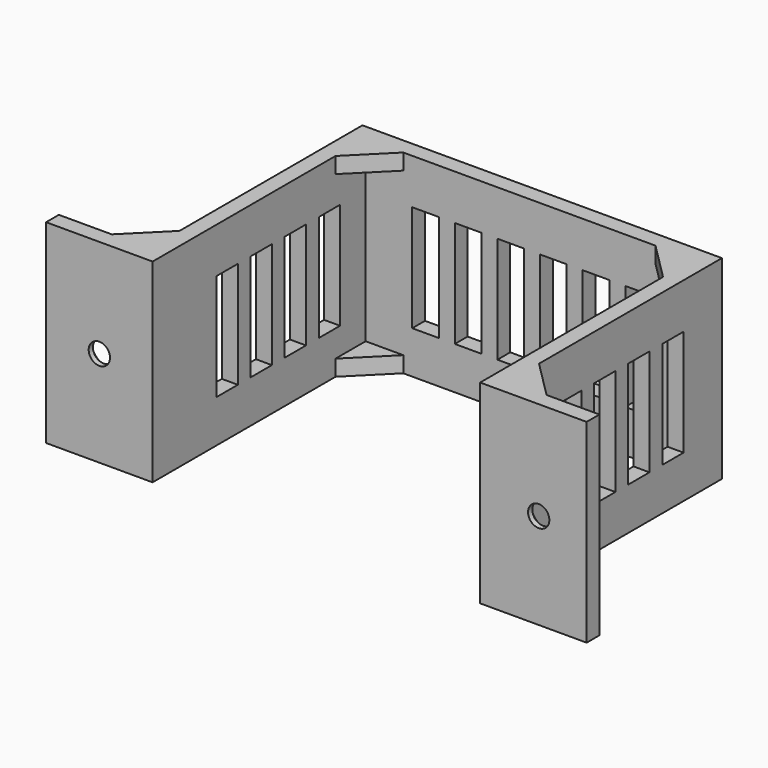
from build123d import *

# Parameters (mm, degrees)
PAD_DEPTH       = 30.5
SKETCH001_R     = 2
SKETCH001_W     = 5
SKETCH001_H     = 20
POCKET_DEPTH    = 53.001
CHAMFER_SIZE    = 2
PAD001_DEPTH    = 3
PAD002_DEPTH    = 3
SKETCH004_W     = 5
SKETCH004_H     = 20
POCKET001_DEPTH = 84.501


with BuildPart() as part:
    # Sketch → Pad (new body)
    with BuildSketch(Plane.XY):
        Polygon((0, 0), (20, 0), (20, 50), (81.5, 50), (81.5, 0), (101.5, 0), (101.5, 3), (84.5, 3), (84.5, 53), (17, 53), (17, 3), (0, 3), align=None)
    extrude(amount=PAD_DEPTH)

    # Sketch001 (on Face1 of Pad) → Pocket (cut, through all)
    with BuildSketch(Plane.XZ):
        with Locations((10, 15)):
            Circle(SKETCH001_R)
        with Locations((92.5, 15)):
            Circle(SKETCH001_R)
        with Locations((31.25, 15)):
            Rectangle(SKETCH001_W, SKETCH001_H)
        with Locations((71.25, 15)):
            Rectangle(SKETCH001_W, SKETCH001_H)
        with Locations((63.25, 15)):
            Rectangle(SKETCH001_W, SKETCH001_H)
        with Locations((39.25, 15)):
            Rectangle(SKETCH001_W, SKETCH001_H)
        with Locations((47.25, 15)):
            Rectangle(SKETCH001_W, SKETCH001_H)
        with Locations((55.25, 15)):
            Rectangle(SKETCH001_W, SKETCH001_H)
    extrude(amount=-POCKET_DEPTH, mode=Mode.SUBTRACT)

    # Chamfer
    chamfer_edges = [part.edges().sort_by_distance(p)[0] for p in [
        (90.5, 3, 15),
        (8, 3, 15),
    ]]
    chamfer(chamfer_edges, length=CHAMFER_SIZE)

    # Sketch003 (on Face6 of Chamfer) → Pad001 (join)
    with BuildSketch(Plane.XY):
        Polygon((0, 0), (20, 0), (20, 42.928932), (27.071068, 50), (74.428932, 50), (81.5, 42.928932), (81.5, 0), (101.5, 0), (101.5, 3), (91.571068, 3), (84.5, 10.071068), (84.5, 53), (17, 53), (17, 10.071068), (9.928932, 3), (0, 3), align=None)
    extrude(amount=-PAD001_DEPTH)

    # Sketch002 (on Face7 of Pad001) → Pad002 (join)
    with BuildSketch(Plane.XY.offset(30.5)):
        Polygon((0, 0), (20, 0), (20, 42.928932), (27.071068, 50), (74.428932, 50), (81.5, 42.928932), (81.5, 0), (101.5, 0), (101.5, 3), (91.571068, 3), (84.5, 10.071068), (84.5, 53), (17, 53), (17, 10.071068), (9.928932, 3), (0, 3), align=None)
    extrude(amount=PAD002_DEPTH)

    # Sketch004 (on Face75 of Pad002) → Pocket001 (cut, through all)
    with BuildSketch(Plane.YZ.offset(84.5)):
        with Locations((17.5, 15)):
            Rectangle(SKETCH004_W, SKETCH004_H)
        with Locations((25.5, 15)):
            Rectangle(SKETCH004_W, SKETCH004_H)
        with Locations((33.5, 15)):
            Rectangle(SKETCH004_W, SKETCH004_H)
        with Locations((41.5, 15)):
            Rectangle(SKETCH004_W, SKETCH004_H)
    extrude(amount=-POCKET001_DEPTH, mode=Mode.SUBTRACT)


solid = part.part
